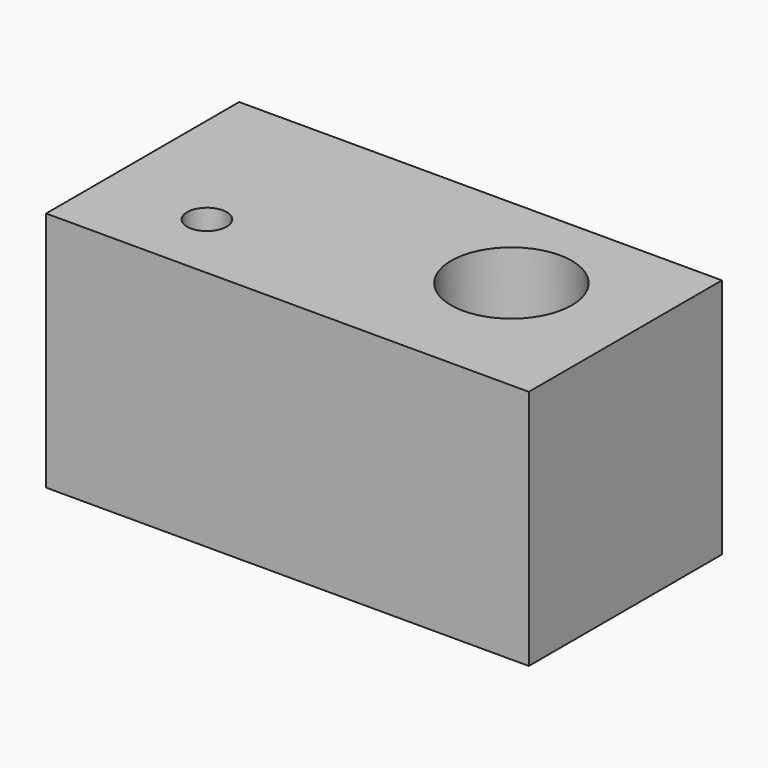
from build123d import *

# Parameters (mm, degrees)
F0_W     = 50
F0_H     = 25
F1_DEPTH = 25
F2_R     = 6.25
F3_DEPTH = 10
F5_D     = 4.1
F6_T     = -1


with BuildPart() as f1:
    # F0 (on Top) → F1 (new body)
    with BuildSketch(Plane.XY):
        Rectangle(F0_W, F0_H)
    extrude(amount=F1_DEPTH)

    # F2 (on face) → F3 (cut)
    with BuildSketch(Plane.XY.offset(25)):
        with Locations((12, 1.5)):
            Circle(F2_R)
    extrude(amount=-F3_DEPTH, mode=Mode.SUBTRACT)

    # F5 (through all)
    with Locations(Plane.XY.offset(25)):
        with Locations((-14.193482697, -5.1824725233)):
            Hole(F5_D / 2)

    # F6
    f6_openings = [f1.faces().sort_by_distance(p)[0] for p in [
        (0.151512, 0.055322, 0),
    ]]
    offset(amount=F6_T, openings=f6_openings, kind=Kind.INTERSECTION)


solid = f1.part
